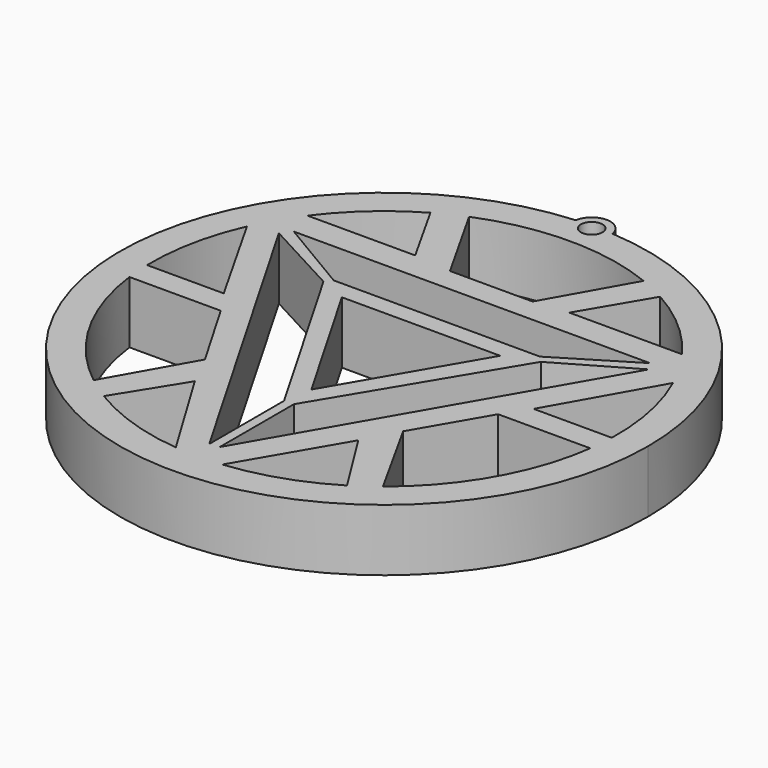
from build123d import *

# Parameters (mm, degrees)
F0_R     = 42.600351
F1_DEPTH = 10
F2_R     = 3
F3_DEPTH = 10
F4_R     = 1.75
F5_DEPTH = 10


with BuildPart() as f1:
    # F0 (on Top) → F1 (new body)
    with BuildSketch(Plane.XY):
        with Locations((-3.491996, 3.379424)):
            Circle(F0_R)
        with BuildLine():
            ThreePointArc((-7.164283, -34.028625), (-15.375556, -32.280481), (-22.994009, -28.753415))
            Line((-22.994009, -28.753415), (-16.57502, -18.424874))
            Line((-16.57502, -18.424874), (-7.164283, -34.028625))
        make_face(mode=Mode.SUBTRACT)
        with BuildLine():
            ThreePointArc((-26.719134, -26.173036), (-36.194012, -15.152333), (-40.779743, -1.361021))
            Line((-40.779743, -1.361021), (-26.045103, -1.361021))
            Line((-26.045103, -1.361021), (-19.285653, -12.996144))
            Line((-19.285653, -12.996144), (-26.719134, -26.173036))
        make_face(mode=Mode.SUBTRACT)
        Polygon((-4.45611, -30.667817), (-33.544526, 19.741029), (-20.909635, 12.940229), (-4.45611, -15.572951), align=None, mode=Mode.SUBTRACT)
        Polygon((-3.691398, -11.018276), (-16.418712, 11.037555), (9.128165, 11.037555), align=None, mode=Mode.SUBTRACT)
        with BuildLine():
            ThreePointArc((16.165116, -28.658769), (8.54654, -32.228461), (0.324819, -34.014155))
            Line((0.324819, -34.014155), (9.573368, -18.149028))
            Line((9.573368, -18.149028), (16.165116, -28.658769))
        make_face(mode=Mode.SUBTRACT)
        Polygon((-2.912057, -15.508026), (14.16059, 12.940229), (26.090452, 19.84215), (-2.912057, -30.488131), align=None, mode=Mode.SUBTRACT)
        with BuildLine():
            Line((19.884041, -26.055397), (12.450778, -12.686017))
            Line((12.450778, -12.686017), (18.892192, -1.584855))
            Line((18.892192, -1.584855), (33.766611, -1.584855))
            ThreePointArc((33.766611, -1.584855), (29.201151, -15.167973), (19.884041, -26.055397))
        make_face(mode=Mode.SUBTRACT)
        with BuildLine():
            ThreePointArc((-41.071032, 2.564623), (-40.341471, 10.793199), (-37.83205, 18.663683))
            Line((-37.83205, 18.663683), (-28.703782, 2.564623))
            Line((-28.703782, 2.564623), (-41.071032, 2.564623))
        make_face(mode=Mode.SUBTRACT)
        Polygon((-20.089835, 13.989503), (-32.347553, 21.261031), (25.130622, 21.261031), (13.177481, 13.989503), align=None, mode=Mode.SUBTRACT)
        with BuildLine():
            Line((-16.344654, 25.73009), (-33.712777, 25.73009))
            ThreePointArc((-33.712777, 25.73009), (-28.452661, 31.483037), (-22.119012, 36.027275))
            Line((-22.119012, 36.027275), (-16.344654, 25.73009))
        make_face(mode=Mode.SUBTRACT)
        with BuildLine():
            Line((-10.259116, 25.144359), (-17.628212, 38.207793))
            ThreePointArc((-17.628212, 38.207793), (-3.588235, 40.96717), (10.465687, 38.279725))
            Line((10.465687, 38.279725), (3.075884, 25.144359))
            Line((3.075884, 25.144359), (-10.259116, 25.144359))
        make_face(mode=Mode.SUBTRACT)
        with BuildLine():
            ThreePointArc((30.767179, 18.844119), (33.358844, 10.786409), (34.081858, 2.353102))
            Line((34.081858, 2.353102), (21.473352, 2.353102))
            Line((21.473352, 2.353102), (30.767179, 18.844119))
        make_face(mode=Mode.SUBTRACT)
        with BuildLine():
            ThreePointArc((14.803284, 36.214323), (21.354359, 31.584149), (26.773684, 25.669252))
            Line((26.773684, 25.669252), (8.578651, 25.669252))
            Line((8.578651, 25.669252), (14.803284, 36.214323))
        make_face(mode=Mode.SUBTRACT)
    extrude(amount=F1_DEPTH)

    # F2 (on face) → F3 (join, through all)
    with BuildSketch(Plane.XY.offset(10)):
        with Locations((-3.588235, 45.396723)):
            Circle(F2_R)
    extrude(amount=-F3_DEPTH)

    # F4 (on face) → F5 (cut, through all)
    with BuildSketch(Plane.XY.offset(10)):
        with Locations((-3.588235, 45.396723)):
            Circle(F4_R)
    extrude(amount=-F5_DEPTH, mode=Mode.SUBTRACT)


solid = f1.part
